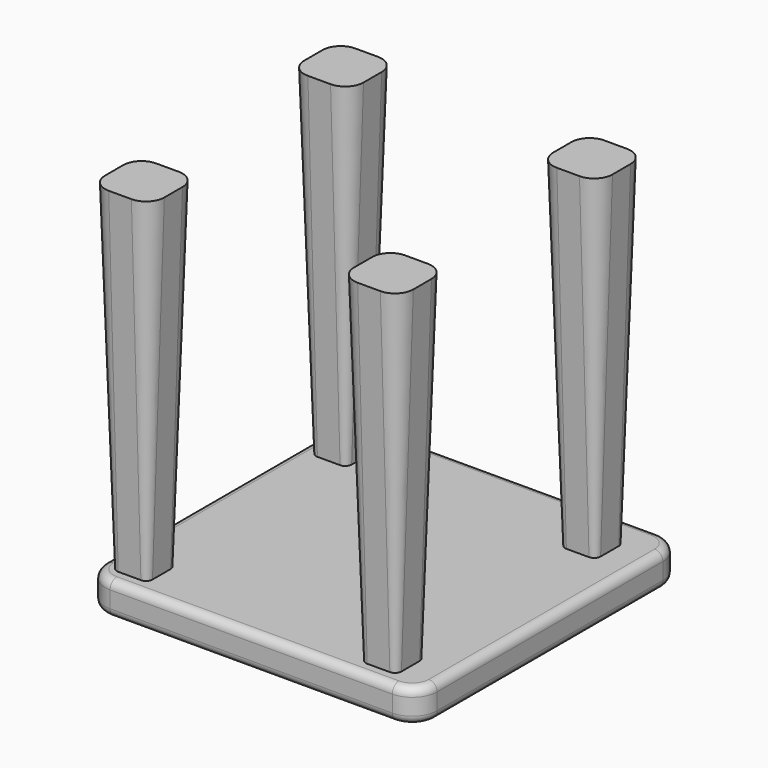
from build123d import *

# Parameters (mm, degrees)
F2_DEPTH = 40
F3_DEPTH = 450
F3_TAPER = -2
F4_R     = 10


with BuildPart() as f2:
    # F0 (on Top) → F2 (new body)
    with BuildSketch(Plane.XY):
        with BuildLine():
            ThreePointArc((200, 170), (191.2132034356, 191.2132034356), (170, 200))
            Line((170, 200), (-170, 200))
            ThreePointArc((-170, 200), (-191.2132034356, 191.2132034356), (-200, 170))
            Line((-200, 170), (-200, -170))
            ThreePointArc((-200, -170), (-191.2132034356, -191.2132034356), (-170, -200))
            Line((-170, -200), (170, -200))
            ThreePointArc((170, -200), (191.2132034356, -191.2132034356), (200, -170))
            Line((200, -170), (200, 170))
        make_face()
    extrude(amount=F2_DEPTH)

    # F1 (on face) → F3 (join)
    with BuildSketch(Plane.XY):
        with BuildLine():
            Line((-175.1270698547, 120), (-147.8270698547, 120))
            ThreePointArc((-147.8270698547, 120), (-143.3369417942, 121.8598719395), (-141.4770698547, 126.35))
            Line((-141.4770698547, 126.35), (-141.4770698547, 153.65))
            ThreePointArc((-141.4770698547, 153.65), (-143.3369417942, 158.1401280605), (-147.8270698547, 160))
            Line((-147.8270698547, 160), (-175.1270698547, 160))
            ThreePointArc((-175.1270698547, 160), (-179.6171979153, 158.1401280605), (-181.4770698547, 153.65))
            Line((-181.4770698547, 153.65), (-181.4770698547, 126.35))
            ThreePointArc((-181.4770698547, 126.35), (-179.6171979153, 121.8598719395), (-175.1270698547, 120))
        make_face()
        with BuildLine():
            Line((-181.4770698547, -146.35), (-181.4770698547, -173.65))
            ThreePointArc((-181.4770698547, -173.65), (-179.6171979153, -178.1401280605), (-175.1270698547, -180))
            Line((-175.1270698547, -180), (-147.8270698547, -180))
            ThreePointArc((-147.8270698547, -180), (-143.3369417942, -178.1401280605), (-141.4770698547, -173.65))
            Line((-141.4770698547, -173.65), (-141.4770698547, -146.35))
            ThreePointArc((-141.4770698547, -146.35), (-143.3369417942, -141.8598719395), (-147.8270698547, -140))
            Line((-147.8270698547, -140), (-175.1270698547, -140))
            ThreePointArc((-175.1270698547, -140), (-179.6171979153, -141.8598719395), (-181.4770698547, -146.35))
        make_face()
        with BuildLine():
            Line((118.5229301453, 153.65), (118.5229301453, 126.35))
            ThreePointArc((118.5229301453, 126.35), (120.3828020847, 121.8598719395), (124.8729301453, 120))
            Line((124.8729301453, 120), (152.1729301453, 120))
            ThreePointArc((152.1729301453, 120), (156.6630582058, 121.8598719395), (158.5229301453, 126.35))
            Line((158.5229301453, 126.35), (158.5229301453, 153.65))
            ThreePointArc((158.5229301453, 153.65), (156.6630582058, 158.1401280605), (152.1729301453, 160))
            Line((152.1729301453, 160), (124.8729301453, 160))
            ThreePointArc((124.8729301453, 160), (120.3828020847, 158.1401280605), (118.5229301453, 153.65))
        make_face()
        with BuildLine():
            Line((118.5229301453, -146.35), (118.5229301453, -173.65))
            ThreePointArc((118.5229301453, -173.65), (120.3828020847, -178.1401280605), (124.8729301453, -180))
            Line((124.8729301453, -180), (152.1729301453, -180))
            ThreePointArc((152.1729301453, -180), (156.6630582058, -178.1401280605), (158.5229301453, -173.65))
            Line((158.5229301453, -173.65), (158.5229301453, -146.35))
            ThreePointArc((158.5229301453, -146.35), (156.6630582058, -141.8598719395), (152.1729301453, -140))
            Line((152.1729301453, -140), (124.8729301453, -140))
            ThreePointArc((124.8729301453, -140), (120.3828020847, -141.8598719395), (118.5229301453, -146.35))
        make_face()
    extrude(amount=F3_DEPTH, taper=F3_TAPER)

    # F4
    f4_edges = [f2.edges().sort_by_distance(p)[0] for p in [
        (200, 170, 20),
        (170, 200, 20),
        (191.213203, 191.213203, 0),
        (191.213203, 191.213203, 40),
    ]]
    fillet(f4_edges, radius=F4_R)


solid = f2.part
